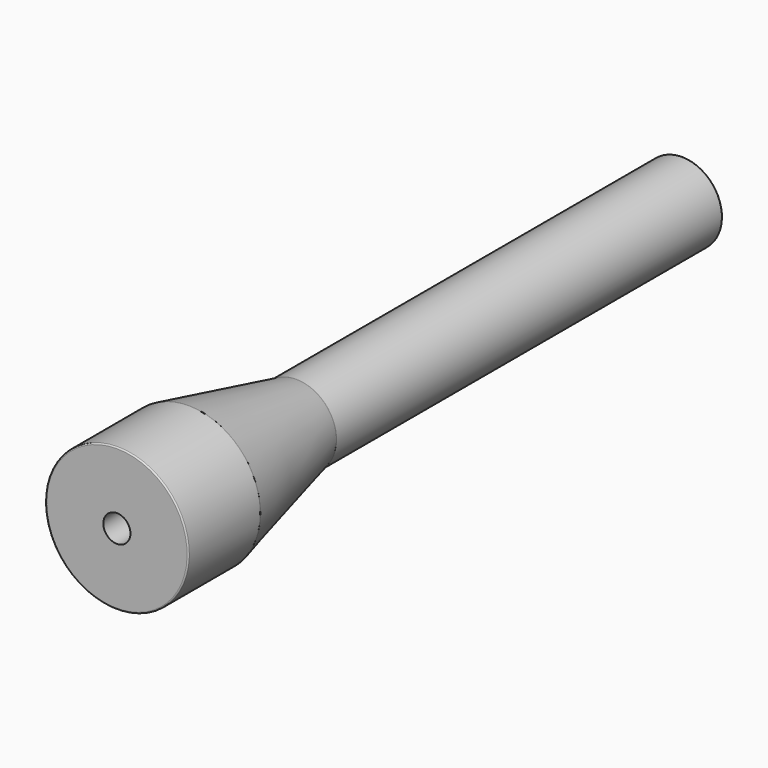
from build123d import *

# Parameters (mm, degrees)
F3_D           = 10.71626
F3_DEPTH       = 191.008
F3_CSINK_D     = 15.875
F3_CSINK_ANGLE = 90
F5_D           = 10.71626
F5_DEPTH       = 241.808
F6_R           = 0.508


with BuildPart() as f1:
    # F0 (on Right) → F1 (revolve)
    with BuildSketch(Plane.YZ):
        Polygon((0, 28.2575), (0, 0), (279.4, 0), (279.4, 15.875), (88.646, 15.875), (35.56, 28.2575), align=None)
    revolve(axis=Axis((0, 139.7, 0), (0, 1, 0)))

    # F3
    with Locations(Plane(origin=(0, 279.4, 0), x_dir=(-1, 0, 0), z_dir=(0, 1, 0))):
        with Locations((0, 0)):
            CounterSinkHole(F3_D / 2, F3_CSINK_D / 2, depth=F3_DEPTH, counter_sink_angle=F3_CSINK_ANGLE)

    # F5
    with Locations(Plane.XZ):
        with Locations((0, 0)):
            Hole(F5_D / 2, depth=F5_DEPTH)

    # F6
    f6_edges = [f1.edges().sort_by_distance(p)[0] for p in [
        (0, 0, -28.2575),
        (0, 35.56, -28.2575),
        (0, 88.646, -15.875),
        (0, 279.4, -15.875),
    ]]
    fillet(f6_edges, radius=F6_R)


solid = f1.part
